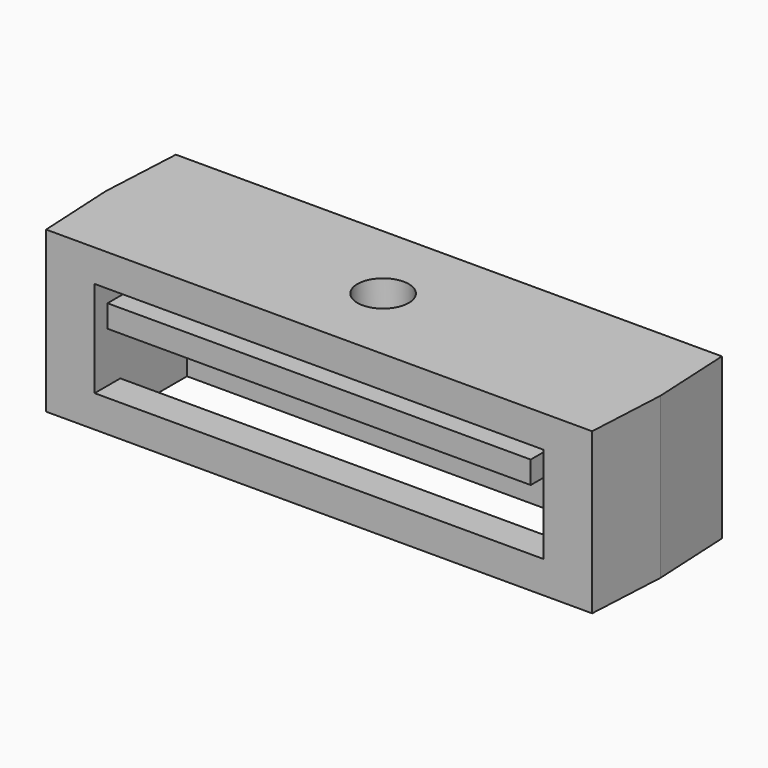
from build123d import *

# Parameters (mm, degrees)
F1_DEPTH  = 25
F3_DEPTH  = 18
F5_DEPTH  = 4.13282
F6_R      = 4
F7_DEPTH  = 9
F8_W      = 70
F8_H      = 13
F9_DEPTH  = 25
F11_DEPTH = 16


with BuildPart() as f1:
    # F0 (on Top) → F1 (new body)
    with BuildSketch(Plane.XY):
        Polygon((42.575, 12.8273032203), (-42.575, 12.8273032203), (-43.225, 0), (-42.575, -12.4726967797), (42.575, -12.4726967797), (43.225, 0), align=None)
    extrude(amount=F1_DEPTH)

    # F2 (on face) → F3 (cut)
    with BuildSketch(Plane.XZ.offset(12.4726967797)):
        Polygon((35, 20), (0, 20), (-35, 20), (-35, 5), (35, 5), align=None)
    extrude(amount=-F3_DEPTH, mode=Mode.SUBTRACT)

    # F4 (on face) → F5 (cut)
    with BuildSketch(Plane.XY.offset(5)):
        Polygon((-35, -7.4726967797), (0, -7.4726967797), (35, -7.4726967797), (35, 5.5273032203), (-35, 5.5273032203), align=None)
    extrude(amount=-F5_DEPTH, mode=Mode.SUBTRACT)

    # F6 (on face) → F7 (cut)
    with BuildSketch(Plane.XY.offset(25)):
        Circle(F6_R)
    extrude(amount=-F7_DEPTH, mode=Mode.SUBTRACT)

    # F8 (on face) → F9 (cut)
    with BuildSketch(Plane.XY.offset(0.86718)):
        with Locations((0, -0.9726967797)):
            Rectangle(F8_W, F8_H)
    extrude(amount=-F9_DEPTH, mode=Mode.SUBTRACT)


with BuildPart() as f11:
    # F10 (on face) → F11 (new body)
    with BuildSketch(Plane.XZ.offset(12.4726967797)):
        Polygon((-33, 18), (-33, 14.5), (33, 14.5), (33, 16.4), (33, 18), align=None)
    extrude(amount=-F11_DEPTH)


solid = Compound([f1.part, f11.part])
